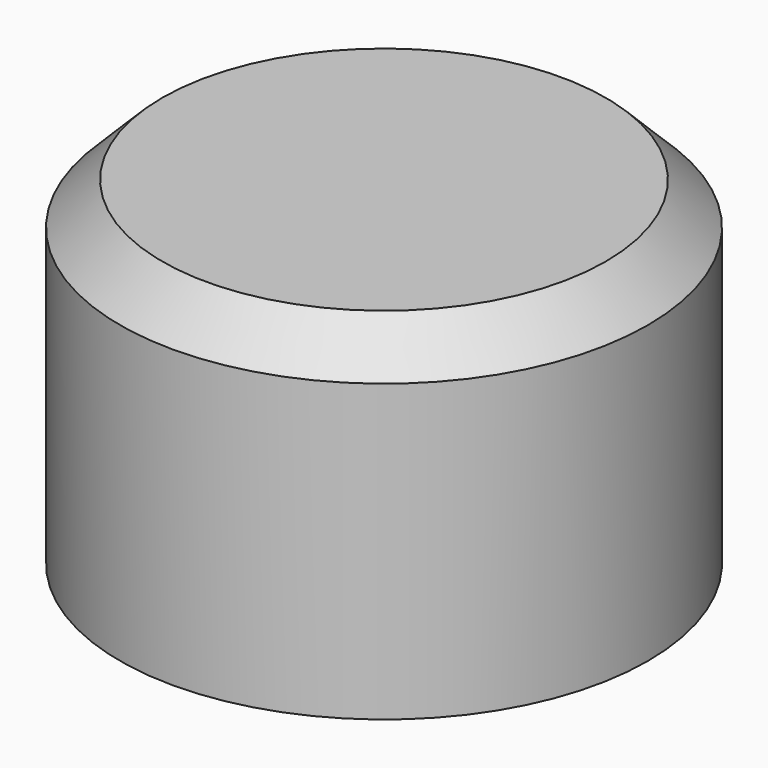
from build123d import *

# Parameters (mm, degrees)
SKETCH023_R     = 2.5
PAD016_DEPTH    = 3.2
SKETCH024_R     = 1.525
POCKET005_DEPTH = 2.8
CHAMFER003_SIZE = 0.4


with BuildPart() as part:
    # Sketch023 → Pad016 (new body)
    with BuildSketch(Plane.XY):
        with Locations((-12.85, 1)):
            Circle(SKETCH023_R)
    extrude(amount=PAD016_DEPTH)

    # Sketch024 → Pocket005 (cut)
    with BuildSketch(Plane.XY):
        with Locations((-12.85, 1)):
            Circle(SKETCH024_R)
    extrude(amount=POCKET005_DEPTH, mode=Mode.SUBTRACT)

    # Chamfer003
    chamfer003_edges = [part.edges().sort_by_distance(p)[0] for p in [
        (-15.35, 1, 3.2),
    ]]
    chamfer(chamfer003_edges, length=CHAMFER003_SIZE)


with BuildPart() as part_1:
    # Body006 placement: moved
    add(part.part.moved(Location((0, 0, 15))))


solid = part_1.part
